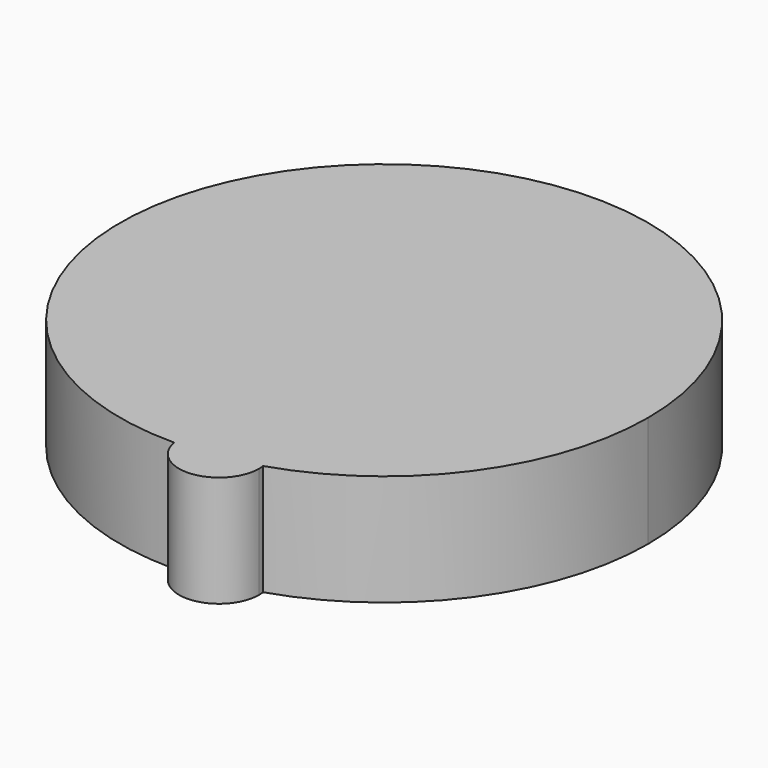
from build123d import *

# Parameters (mm, degrees)
F1_DEPTH = 25.4


with BuildPart() as f1:
    # F0 (on Top) → F1 (new body)
    with BuildSketch(Plane.XY):
        with BuildLine():
            ThreePointArc((-9.0044819055, -1.5809912491), (0.7934900335, -9.1077220689), (9.1422222527, 0))
            ThreePointArc((9.1422222527, 0), (9.1201150184, 0.6353973312), (9.0539002326, 1.2677216946))
            ThreePointArc((9.0539002326, 1.2677216946), (0.1332345223, -0.8445919139), (-9.0044819055, -1.5809912491))
        make_face()
        with BuildLine():
            ThreePointArc((-9.0044819055, -1.5809912491), (0.1332345223, -0.8445919139), (9.0539002326, 1.2677216946))
            ThreePointArc((9.0539002326, 1.2677216946), (-1.4245707781, 9.0305495855), (-9.0044819055, -1.5809912491))
        make_face()
        with BuildLine():
            ThreePointArc((-9.0044819055, -1.5809912491), (-1.4245707781, 9.0305495855), (9.0539002326, 1.2677216946))
            ThreePointArc((9.0539002326, 1.2677216946), (39.4430206624, 23.152045641), (51.0652911655, 58.7518364191))
            ThreePointArc((51.0652911655, 58.7518364191), (-52.0233772174, 101.3206857436), (-9.0044819055, -1.5809912491))
        make_face()
    extrude(amount=F1_DEPTH)


solid = f1.part
